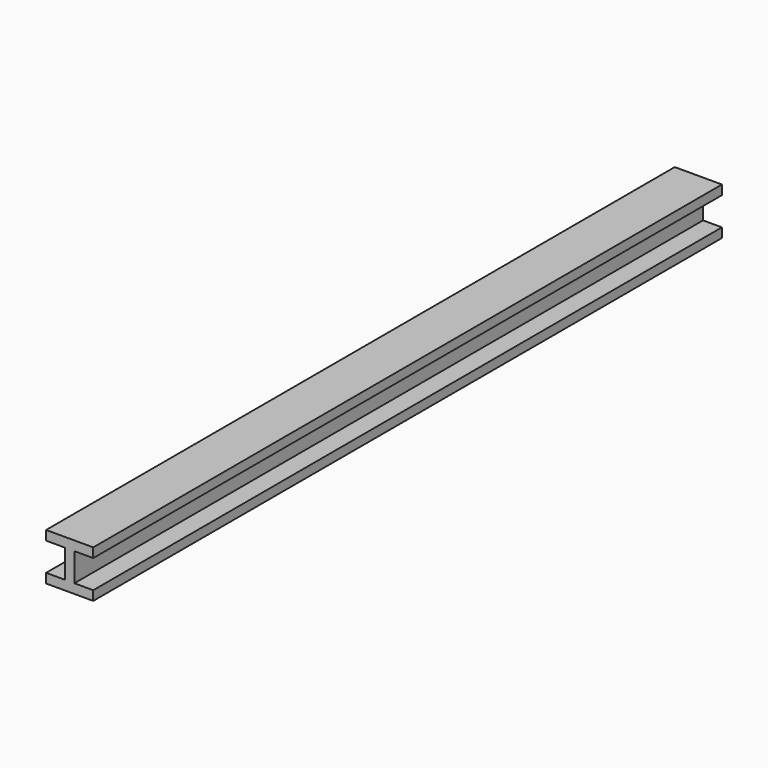
from build123d import *

# Parameters (mm, degrees)
F1_DEPTH = 254


with BuildPart() as f1:
    # F0 (on Front) → F1 (new body)
    with BuildSketch(Plane.XZ):
        Polygon((-1.524, 0), (0, 0), (0, 7.62), (-7.62, 7.62), (-7.62, 4.572), (-1.524, 4.572), align=None)
    extrude(amount=F1_DEPTH)

    # F2: F1 across face


with BuildPart() as f1_1:
    add(f1.part)
    add(f1.part.mirror(Plane(origin=(0, -127, 3.81), x_dir=(0, 1, 0), z_dir=(1, 0, 0))))

    # F3: F1 across face


with BuildPart() as f1_2:
    add(f1_1.part)
    add(f1_1.part.mirror(Plane(origin=(0, -127, 0), x_dir=(1, 0, 0), z_dir=(0, 0, -1))))


solid = f1_2.part
